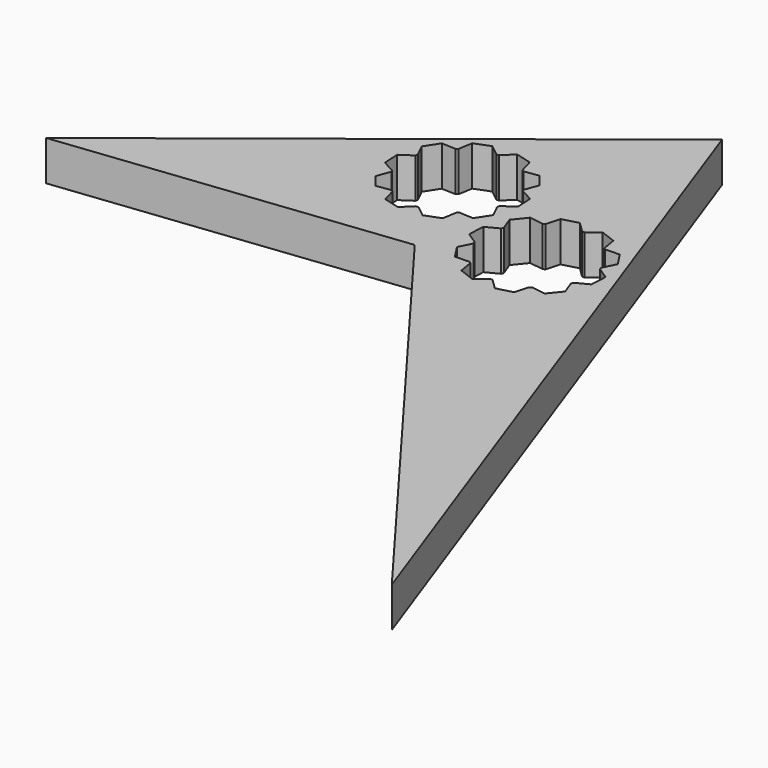
from build123d import *

# Parameters (mm, degrees)
F1_DEPTH = 2


with BuildPart() as f1:
    # F0 (on Top) → F1 (new body)
    with BuildSketch(Plane.XY):
        Polygon((17.362918, -22.817224), (3.905775, 14.67053), (-16.825457, -1.721608), (0.091206, 0.211725), align=None)
        with BuildLine():
            ThreePointArc((-4.499081, 4.477946), (-4.520667, 4.532407), (-4.541067, 4.587323))
            Line((-4.541067, 4.587323), (-5.173952, 4.919177))
            Line((-5.173952, 4.919177), (-5.217277, 5.745873))
            Line((-5.217277, 5.745873), (-4.622547, 6.142063))
            ThreePointArc((-4.622547, 6.142063), (-4.608, 6.198811), (-4.592224, 6.25523))
            Line((-4.592224, 6.25523), (-4.90918, 6.895706))
            Line((-4.90918, 6.895706), (-4.458311, 7.589984))
            Line((-4.458311, 7.589984), (-3.74429, 7.560935))
            ThreePointArc((-3.74429, 7.560935), (-3.699165, 7.598294), (-3.65324, 7.634665))
            Line((-3.65324, 7.634665), (-3.533201, 8.339123))
            Line((-3.533201, 8.339123), (-2.760354, 8.635791))
            Line((-2.760354, 8.635791), (-2.199773, 8.192599))
            ThreePointArc((-2.199773, 8.192599), (-2.141307, 8.1963), (-2.082775, 8.198731))
            Line((-2.082775, 8.198731), (-1.571591, 8.698092))
            Line((-1.571591, 8.698092), (-0.771967, 8.483833))
            Line((-0.771967, 8.483833), (-0.57895, 7.795782))
            ThreePointArc((-0.57895, 7.795782), (-0.529475, 7.764411), (-0.480692, 7.731973))
            Line((-0.480692, 7.731973), (0.226382, 7.835498))
            Line((0.226382, 7.835498), (0.747352, 7.192153))
            Line((0.747352, 7.192153), (0.499081, 6.522054))
            ThreePointArc((0.499081, 6.522054), (0.520667, 6.467593), (0.541067, 6.412677))
            Line((0.541067, 6.412677), (1.173952, 6.080823))
            Line((1.173952, 6.080823), (1.217277, 5.254127))
            Line((1.217277, 5.254127), (0.622547, 4.857937))
            ThreePointArc((0.622547, 4.857937), (0.608, 4.801189), (0.592224, 4.74477))
            Line((0.592224, 4.74477), (0.90918, 4.104294))
            Line((0.90918, 4.104294), (0.458311, 3.410016))
            Line((0.458311, 3.410016), (-0.25571, 3.439065))
            ThreePointArc((-0.25571, 3.439065), (-0.300835, 3.401706), (-0.34676, 3.365335))
            Line((-0.34676, 3.365335), (-0.466799, 2.660877))
            Line((-0.466799, 2.660877), (-1.239646, 2.364209))
            Line((-1.239646, 2.364209), (-1.800227, 2.807401))
            ThreePointArc((-1.800227, 2.807401), (-1.858693, 2.8037), (-1.917225, 2.801269))
            Line((-1.917225, 2.801269), (-2.428409, 2.301908))
            Line((-2.428409, 2.301908), (-3.228033, 2.516167))
            Line((-3.228033, 2.516167), (-3.42105, 3.204218))
            ThreePointArc((-3.42105, 3.204218), (-3.470525, 3.235589), (-3.519308, 3.268027))
            Line((-3.519308, 3.268027), (-4.226382, 3.164502))
            Line((-4.226382, 3.164502), (-4.747352, 3.807847))
            Line((-4.747352, 3.807847), (-4.499081, 4.477946))
        make_face(mode=Mode.SUBTRACT)
        with BuildLine():
            ThreePointArc((2.880692, 4.731973), (2.929475, 4.764411), (2.97895, 4.795782))
            Line((2.97895, 4.795782), (3.171967, 5.483833))
            Line((3.171967, 5.483833), (3.971591, 5.698092))
            Line((3.971591, 5.698092), (4.482775, 5.198731))
            ThreePointArc((4.482775, 5.198731), (4.541307, 5.1963), (4.599773, 5.192599))
            Line((4.599773, 5.192599), (5.160354, 5.635791))
            Line((5.160354, 5.635791), (5.933201, 5.339123))
            Line((5.933201, 5.339123), (6.05324, 4.634665))
            ThreePointArc((6.05324, 4.634665), (6.099165, 4.598294), (6.14429, 4.560935))
            Line((6.14429, 4.560935), (6.858311, 4.589984))
            Line((6.858311, 4.589984), (7.30918, 3.895706))
            Line((7.30918, 3.895706), (6.992224, 3.25523))
            ThreePointArc((6.992224, 3.25523), (7.008, 3.198811), (7.022547, 3.142063))
            Line((7.022547, 3.142063), (7.617277, 2.745873))
            Line((7.617277, 2.745873), (7.573952, 1.919177))
            Line((7.573952, 1.919177), (6.941067, 1.587323))
            ThreePointArc((6.941067, 1.587323), (6.920667, 1.532407), (6.899081, 1.477946))
            Line((6.899081, 1.477946), (7.147352, 0.807847))
            Line((7.147352, 0.807847), (6.626382, 0.164502))
            Line((6.626382, 0.164502), (5.919308, 0.268027))
            ThreePointArc((5.919308, 0.268027), (5.870525, 0.235589), (5.82105, 0.204218))
            Line((5.82105, 0.204218), (5.628033, -0.483833))
            Line((5.628033, -0.483833), (4.828409, -0.698092))
            Line((4.828409, -0.698092), (4.317225, -0.198731))
            ThreePointArc((4.317225, -0.198731), (4.258693, -0.1963), (4.200227, -0.192599))
            Line((4.200227, -0.192599), (3.639646, -0.635791))
            Line((3.639646, -0.635791), (2.866799, -0.339123))
            Line((2.866799, -0.339123), (2.74676, 0.365335))
            ThreePointArc((2.74676, 0.365335), (2.700835, 0.401706), (2.65571, 0.439065))
            Line((2.65571, 0.439065), (1.941689, 0.410016))
            Line((1.941689, 0.410016), (1.49082, 1.104294))
            Line((1.49082, 1.104294), (1.807776, 1.74477))
            ThreePointArc((1.807776, 1.74477), (1.792, 1.801189), (1.777453, 1.857937))
            Line((1.777453, 1.857937), (1.182723, 2.254127))
            Line((1.182723, 2.254127), (1.226048, 3.080823))
            Line((1.226048, 3.080823), (1.858933, 3.412677))
            ThreePointArc((1.858933, 3.412677), (1.879333, 3.467593), (1.900919, 3.522054))
            Line((1.900919, 3.522054), (1.652648, 4.192153))
            Line((1.652648, 4.192153), (2.173618, 4.835498))
            Line((2.173618, 4.835498), (2.880692, 4.731973))
        make_face(mode=Mode.SUBTRACT)
    extrude(amount=F1_DEPTH)


solid = f1.part
